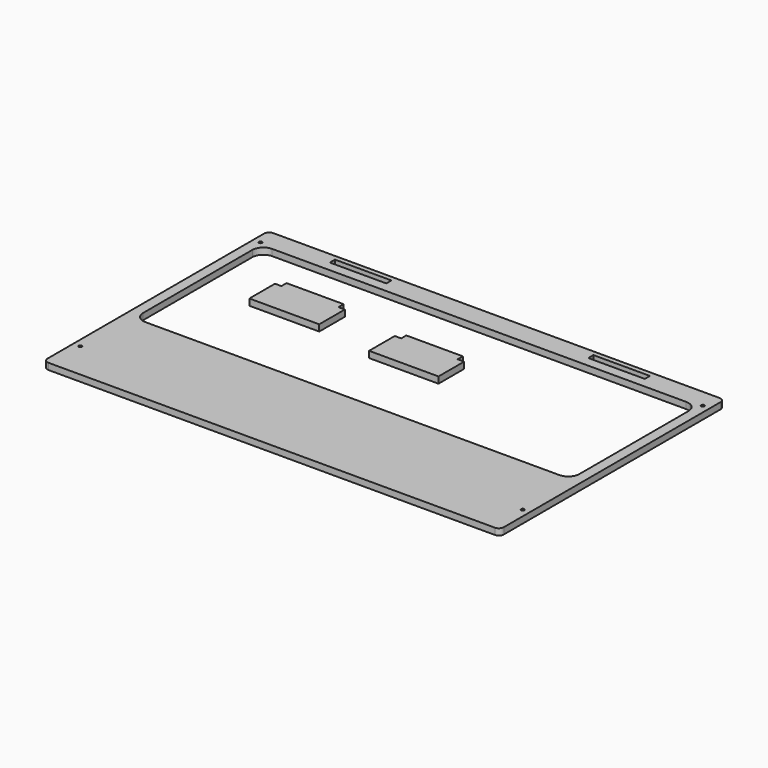
from build123d import *

# Parameters (mm, degrees)
F0_R     = 1.6
F0_W     = 56
F0_H     = 6.35
F1_DEPTH = 6.35


with BuildPart() as f1:
    # F0 (on Top) → F1 (new body)
    with BuildSketch(Plane.XY):
        with BuildLine():
            Line((223.314591, 47.126997), (223.314591, 49.126997))
            Line((223.314591, 49.126997), (223.314591, 60.320925))
            ThreePointArc((223.314591, 60.320925), (223.313982, 60.398971), (223.312155, 60.476997))
            ThreePointArc((223.312155, 60.476997), (221.794508, 63.911215), (218.314591, 65.320925))
            Line((218.314591, 65.320925), (-118.902974, 65.320925))
            Line((-118.902974, 65.320925), (-223.685409, 65.320925))
            ThreePointArc((-223.685409, 65.320925), (-227.220943, 63.856459), (-228.685409, 60.320925))
            Line((-228.685409, 60.320925), (-228.685409, -175.873003))
            Line((-228.685409, -175.873003), (-228.685409, -177.873003))
            Line((-228.685409, -177.873003), (-228.685409, -207.873003))
            ThreePointArc((-228.685409, -207.873003), (-227.220943, -211.408537), (-223.685409, -212.873003))
            Line((-223.685409, -212.873003), (-64.44785, -212.873003))
            Line((-64.44785, -212.873003), (218.314591, -212.873003))
            ThreePointArc((218.314591, -212.873003), (221.850125, -211.408537), (223.314591, -207.873003))
            Line((223.314591, -207.873003), (223.314591, -177.873003))
            Line((223.314591, -177.873003), (223.314591, -175.873003))
            Line((223.314591, -175.873003), (223.314591, 47.126997))
        make_face()
        with Locations((-221.685409, -175.873003)):
            Circle(F0_R, mode=Mode.SUBTRACT)
        with Locations((216.314591, -175.873003)):
            Circle(F0_R, mode=Mode.SUBTRACT)
        with Locations((-221.685409, 47.126997)):
            Circle(F0_R, mode=Mode.SUBTRACT)
        with Locations((-130.685409, 57.301997)):
            Rectangle(F0_W, F0_H, mode=Mode.SUBTRACT)
        with BuildLine():
            Line((213.314591, 33.126997), (213.314591, -31.178514))
            Line((213.314591, -31.178514), (213.314591, -101.873003))
            ThreePointArc((213.314591, -101.873003), (210.092766, -109.651177), (202.314591, -112.873003))
            Line((202.314591, -112.873003), (-207.685409, -112.873003))
            ThreePointArc((-207.685409, -112.873003), (-215.463583, -109.651177), (-218.685409, -101.873003))
            Line((-218.685409, -101.873003), (-218.685409, -34.373003))
            Line((-218.685409, -34.373003), (-218.685409, 33.126997))
            ThreePointArc((-218.685409, 33.126997), (-215.463583, 40.905172), (-207.685409, 44.126997))
            Line((-207.685409, 44.126997), (202.314591, 44.126997))
            ThreePointArc((202.314591, 44.126997), (210.092766, 40.905172), (213.314591, 33.126997))
        make_face(mode=Mode.SUBTRACT)
        with Locations((125.314591, 57.301997)):
            Rectangle(F0_W, F0_H, mode=Mode.SUBTRACT)
        with Locations((216.314591, 47.126997)):
            Circle(F0_R, mode=Mode.SUBTRACT)
        Polygon((-106.808259, 6.35), (-163.308259, 6.35), (-163.308259, 0), (-169.658259, 0), (-169.658259, -31.75), (-163.308259, -31.75), (-107.308259, -31.75), (-100.458259, -31.75), (-100.458259, 0), (-106.808259, 0), align=None)
        Polygon((19.75851, -4.2318), (-36.24149, -4.2318), (-36.24149, -10.5818), (-42.59149, -10.5818), (-42.59149, -42.3318), (-36.24149, -42.3318), (19.75851, -42.3318), (26.10851, -42.3318), (26.10851, -10.5818), (19.75851, -10.5818), align=None)
    extrude(amount=F1_DEPTH)


solid = f1.part
